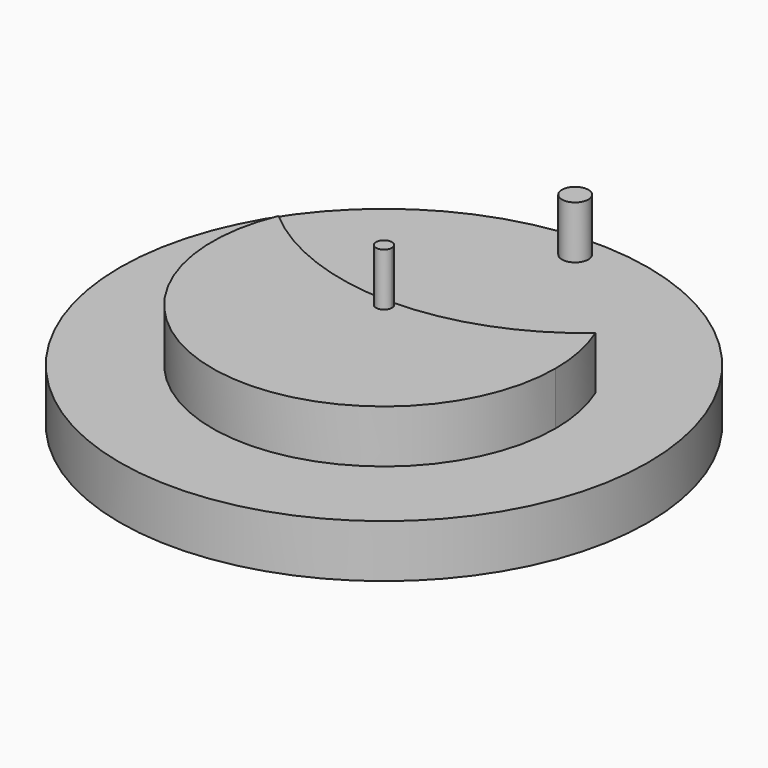
from build123d import *

# Parameters (mm, degrees)
F0_R          = 50
F1_DEPTH      = 10
F3_DEPTH      = 10
F5_DEPTH      = 10
F5_DEPTH_BACK = 30
F7_R          = 2.5
F8_DEPTH      = 10


with BuildPart() as f1:
    # F0 (on Top) → F1 (new body)
    with BuildSketch(Plane.XY):
        Circle(F0_R)
    extrude(amount=F1_DEPTH)

    # F2 (on face) → F3 (join)
    with BuildSketch(Plane.XY.offset(10)):
        with BuildLine():
            ThreePointArc((-30, 12.5), (-6.373774392, -31.86887196), (32.5, 0))
            ThreePointArc((32.5, 0), (31.86887196, 6.373774392), (30, 12.5))
            ThreePointArc((30, 12.5), (0, 1.418320568), (-30, 12.5))
        make_face()
    extrude(amount=F3_DEPTH)

    # F4 (on face) → F5 (join, two sides)
    with BuildSketch(Plane.XY.offset(20)) as f5_sk:
        with BuildLine():
            ThreePointArc((-0.4808877088, 1.4208261722), (0, 1.418320568), (0.4808877088, 1.4208261722))
            ThreePointArc((0.4808877088, 1.4208261722), (0, 1.5), (-0.4808877088, 1.4208261722))
        make_face()
        with BuildLine():
            ThreePointArc((-0.4808877088, 1.4208261722), (-0.8742620994, -1.2188789036), (1.5, 0))
            ThreePointArc((1.5, 0), (1.2188789036, 0.8742620994), (0.4808877088, 1.4208261722))
            ThreePointArc((0.4808877088, 1.4208261722), (0, 1.418320568), (-0.4808877088, 1.4208261722))
        make_face()
    extrude(amount=F5_DEPTH)
    extrude(f5_sk.sketch, amount=-F5_DEPTH_BACK)

    # F7 (on face) → F8 (join)
    with BuildSketch(Plane.XY.offset(10)):
        with Locations((0, 45.2338345349)):
            Circle(F7_R)
    extrude(amount=F8_DEPTH)


solid = f1.part
